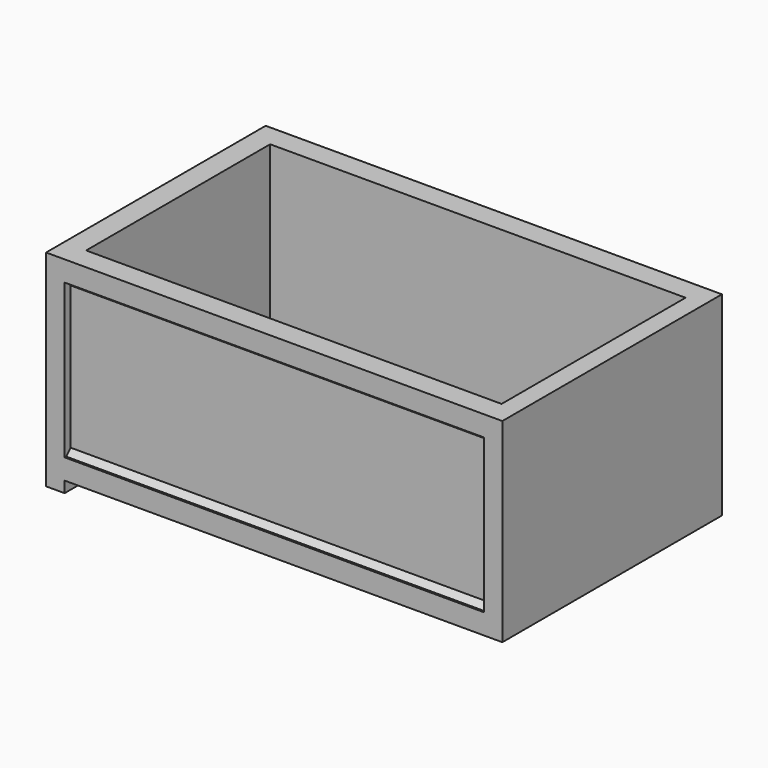
from build123d import *

# Parameters (mm, degrees)
F1_DEPTH  = 22.6
F2_W      = 1
F2_H      = 10.5
F3_DEPTH  = 7.4
F4_W      = 7.4
F4_H      = 10.9
F5_DEPTH  = 1
F6_DEPTH  = 0.2
F7_W      = 3.9333333333
F7_H      = 8.7
F7_W_2    = 1.9666666667
F8_DEPTH  = 0.4
F9_SIZE   = 0.3
F11_DEPTH = 0.8
F13_W     = 1
F13_H     = 14.8
F14_DEPTH = 0.2
F15_W     = 3.9333333333
F15_H     = 6.5
F16_DEPTH = 0.2
F18_DEPTH = 0.25


with BuildPart() as f1:
    # F0 (on Right) → F1 (new body)
    with BuildSketch(Plane.YZ):
        Polygon((-6.2, 10.9), (-7.4, 10.9), (-7.4, 9.8), (-7, 9.8), (-7, 1.5), (-7.4, 1.5), (-7.4, 0.4), (-2.9, 0.4), (-2.9, 0), (-2, 0), (-2, 0.4), (0, 0.4), (0, 1.2), (-6.2, 1.2), align=None)
    extrude(amount=F1_DEPTH)

    # F2 (on face) → F3 (join, through all)
    with BuildSketch(Plane.XZ.offset(7.4)):
        with Locations((23.1, 5.65)):
            Rectangle(F2_W, F2_H)
    extrude(amount=-F3_DEPTH)

    # F4 (on face) → F5 (join)
    with BuildSketch(Plane(origin=(0, 0, 0), x_dir=(0, -1, 0), z_dir=(-1, 0, 0))):
        with Locations((3.7, 5.45)):
            Rectangle(F4_W, F4_H)
    extrude(amount=F5_DEPTH)

    # F6 (add): a face of the model
    f6_faces = [f1.faces().sort_by_distance(p)[0] for p in [
        (0, -3.1, 6.05),
    ]]
    extrude(f6_faces, amount=F6_DEPTH)

    # F7 (on face) → F8 (cut)
    with BuildSketch(Plane(origin=(-1, 0, 0), x_dir=(0, -1, 0), z_dir=(-1, 0, 0))):
        with Locations((4.5333333333, 5.45)):
            Rectangle(F7_W, F7_H)
        with Locations((0.9833333333, 5.45)):
            Rectangle(F7_W_2, F7_H)
    extrude(amount=-F8_DEPTH, mode=Mode.SUBTRACT)

    # F9
    f9_edges = [f1.edges().sort_by_distance(p)[0] for p in [
        (11.3, -7, 1.5),
        (11.3, -7, 9.8),
    ]]
    chamfer(f9_edges, length=F9_SIZE)

    # F10 (on face) → F11 (join)
    with BuildSketch(Plane(origin=(0, 0, 0), x_dir=(-1, 0, 0), z_dir=(0, 1, 0))):
        Polygon((-22.6, 9.5), (-22.6, 1.2), (-21.1, 1.2), (-22.3, 9.5), align=None)
    extrude(amount=-F11_DEPTH)

    # F12: F1 across face


with BuildPart() as f1_1:
    add(f1.part)
    add(f1.part.mirror(Plane(origin=(13.4187293548, 0, 3.5023232768), x_dir=(-1, 0, 0), z_dir=(0, 1, 0))))

    # F13 (on face) → F14 (join)
    with BuildSketch(Plane(origin=(0, 0, 0), x_dir=(1, 0, 0), z_dir=(0, 0, -1))):
        with Locations((-0.5, 0)):
            Rectangle(F13_W, F13_H)
    extrude(amount=F14_DEPTH)

    # F15 (on face) → F16 (join)
    with BuildSketch(Plane(origin=(-0.6, 0, 0), x_dir=(0, -1, 0), z_dir=(-1, 0, 0))):
        with Locations((0, 4.35)):
            Rectangle(F15_W, F15_H)
    extrude(amount=F16_DEPTH)

    # F17 (on face) → F18 (join)
    with BuildSketch(Plane(origin=(-0.8, 0, 0), x_dir=(0, -1, 0), z_dir=(-1, 0, 0))):
        Polygon((-0.7, 6.3), (-1, 6.3), (-1, 2.1), (1, 2.1), (1, 6.3), (0.7, 6.3), (0.7, 2.4), (-0.7, 2.4), align=None)
    extrude(amount=F18_DEPTH)


solid = f1_1.part
